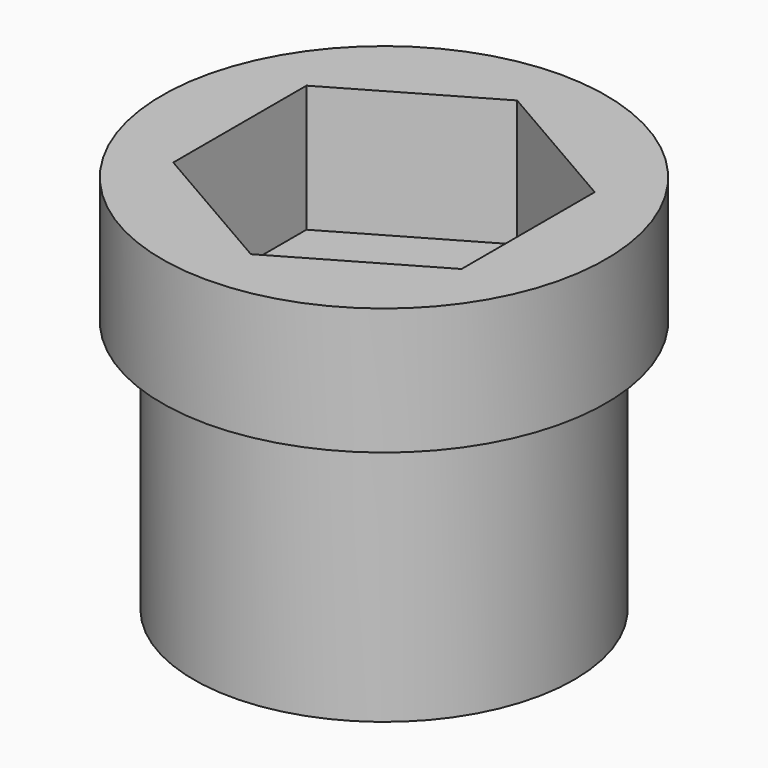
from build123d import *

# Parameters (mm, degrees)
SKETCH159_R             = 7
PAD068_DEPTH            = 4
SKETCH160_R             = 6
PAD069_DEPTH            = 8
POCKET068_DEPTH         = 20
BODY020_ROLL_ANGLE      = 90
BODY020_PLACEMENT_ANGLE = 30


with BuildPart() as part:
    # Sketch159 → Pad068 (new body)
    with BuildSketch(Plane.XZ):
        Circle(SKETCH159_R)
        Polygon((5.25, 0), (2.625, 4.546633), (-2.625, 4.546633), (-5.25, 0), (-2.625, -4.546633), (2.625, -4.546633), align=None, mode=Mode.SUBTRACT)
    extrude(amount=PAD068_DEPTH)

    # Sketch160 (on Face9 of Pad068) → Pad069 (join)
    with BuildSketch(Plane.XZ.offset(4)):
        Circle(SKETCH160_R)
    extrude(amount=PAD069_DEPTH)

    # Sketch162 (on Face12 of Pad069) → Pocket068 (cut)
    with BuildSketch(Plane.XZ.offset(12)):
        with BuildLine():
            ThreePointArc((2.1, 2.142429), (0, 3), (-2.1, 2.142429))
            Line((-2.1, 2.142429), (-2.1, -2.142429))
            ThreePointArc((-2.1, -2.142429), (0, -3), (2.1, -2.142429))
            Line((2.1, 2.142429), (2.1, -2.142429))
        make_face()
    extrude(amount=-POCKET068_DEPTH, mode=Mode.SUBTRACT)


with BuildPart() as part_1:
    # Body020 roll: moved
    add(part.part.rotate(Axis((0, 0, 0), (1, 0, 0)), BODY020_ROLL_ANGLE))


with BuildPart() as part_2:
    # Body020 placement: moved
    add(part_1.part.moved(Location((0.5, -102.866025, 17))).rotate(Axis((0.5, -102.866025, 17), (0, 0, 1)), BODY020_PLACEMENT_ANGLE))


solid = part_2.part
